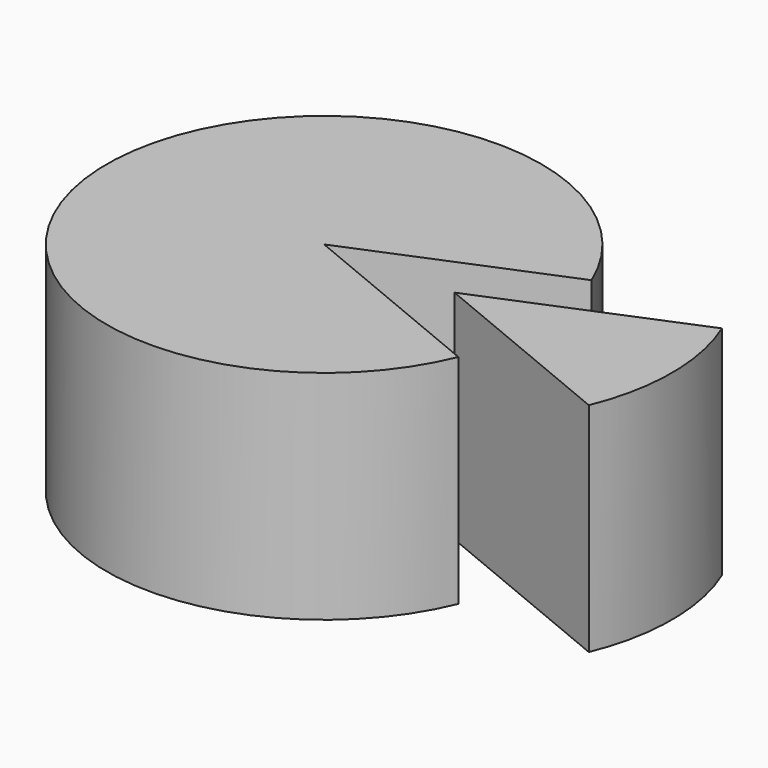
from build123d import *

# Parameters (mm, degrees)
CYLINDER_W                  = 20
CYLINDER_H                  = 20
CYLINDER_ANGLE              = 315
CYLINDER_PLACEMENT_ANGLE    = 22.5
CYLINDER001_W               = 20
CYLINDER001_H               = 20
CYLINDER001_ANGLE           = 45
CYLINDER001_PLACEMENT_ANGLE = 337.5


with BuildPart() as cilindre:
    # Cylinder → Cylinder (revolve)
    with BuildSketch(Plane.XZ):
        with Locations((10, 10)):
            Rectangle(CYLINDER_W, CYLINDER_H)
    revolve(axis=Axis((0, 0, 0), (0, 0, 1)), revolution_arc=CYLINDER_ANGLE)


with BuildPart() as cilindre_1:
    # Cylinder placement: moved
    add(cilindre.part.rotate(Axis((0, 0, 0), (0, 0, 1)), CYLINDER_PLACEMENT_ANGLE))


with BuildPart() as cilindre001:
    # Cylinder001 → Cylinder001 (revolve)
    with BuildSketch(Plane.XZ):
        with Locations((10, 10)):
            Rectangle(CYLINDER001_W, CYLINDER001_H)
    revolve(axis=Axis((0, 0, 0), (0, 0, 1)), revolution_arc=CYLINDER001_ANGLE)


with BuildPart() as cilindre001_1:
    # Cylinder001 placement: moved
    add(cilindre001.part.moved(Location((12, 0, 0))).rotate(Axis((12, 0, 0), (0, 0, 1)), CYLINDER001_PLACEMENT_ANGLE))


solid = Compound([cilindre_1.part, cilindre001_1.part])
